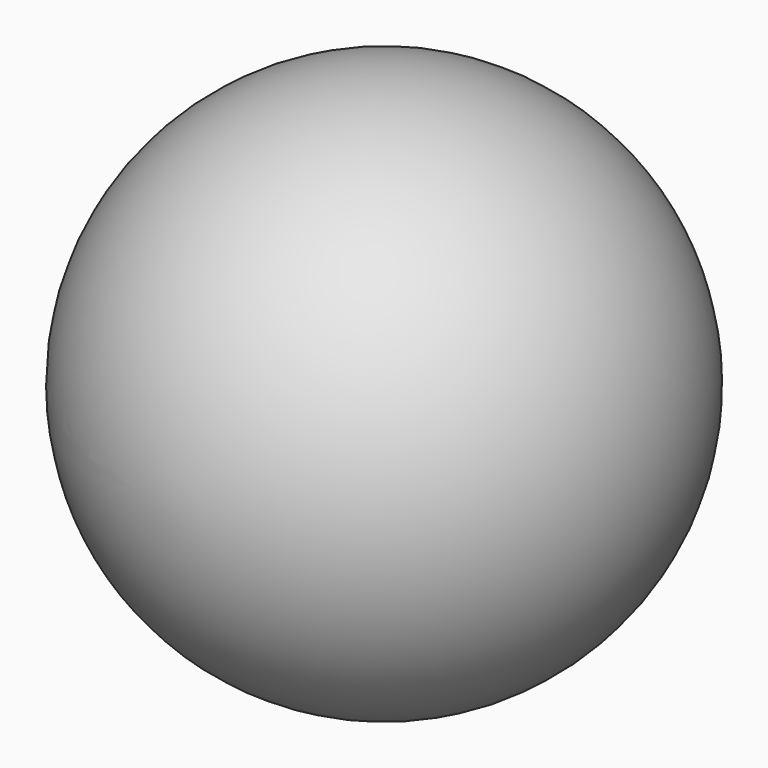
from build123d import *


with BuildPart() as f1:
    # F0 (on Top) → F1 (revolve)
    with BuildSketch(Plane.XY):
        with BuildLine():
            Line((0, 19.431), (0, 20.574))
            ThreePointArc((0, 20.574), (-20.574, 0), (0, -20.574))
            Line((0, -20.574), (0, -19.431))
            ThreePointArc((0, -19.431), (-19.431, 0), (0, 19.431))
        make_face()
    revolve(axis=Axis((0, 0, 0), (0, -1, 0)))


solid = f1.part
